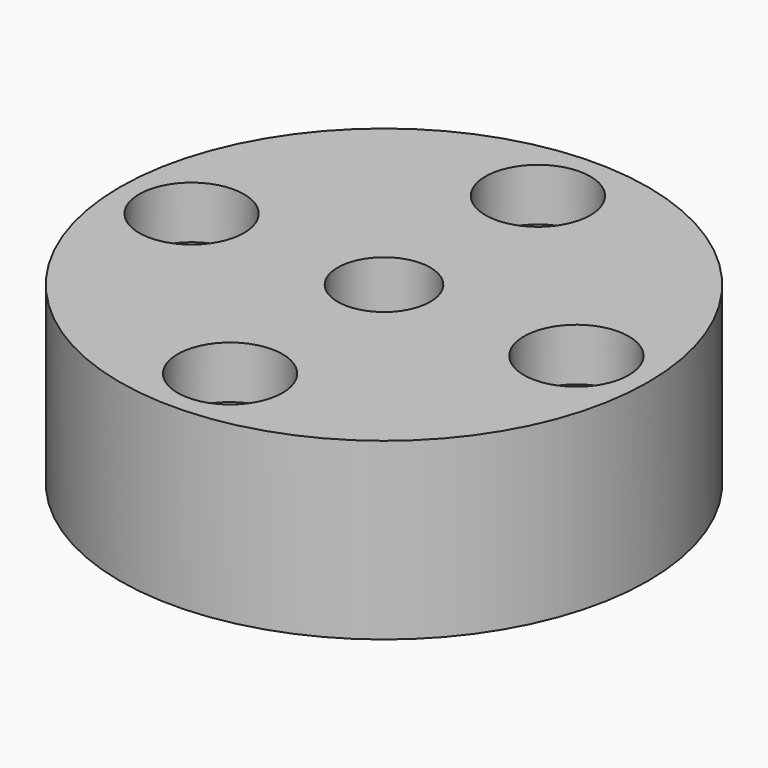
from build123d import *

# Parameters (mm, degrees)
CYLINDER1824_R     = 2.65
CYLINDER1824_DEPTH = 30
CYLINDER1820_R     = 3
CYLINDER1820_DEPTH = 3
CYLINDER1817_R     = 3
CYLINDER1817_DEPTH = 3
CYLINDER1830_R     = 3
CYLINDER1830_DEPTH = 3
CYLINDER1819_R     = 3
CYLINDER1819_DEPTH = 3
CYLINDER1823_R     = 1.5
CYLINDER1823_DEPTH = 30
CYLINDER1825_R     = 1.5
CYLINDER1825_DEPTH = 30
CYLINDER1827_R     = 1.5
CYLINDER1827_DEPTH = 30
CYLINDER1821_R     = 1.5
CYLINDER1821_DEPTH = 30
CYLINDER1822_R     = 15.1
CYLINDER1822_DEPTH = 10


with BuildPart() as obj1:
    # Cylinder1824 → Cylinder1824 (new body)
    with BuildSketch(Plane(origin=(0, 83, 232), x_dir=(1, 0, 0), z_dir=(0, 0, 1))):
        Circle(CYLINDER1824_R)
    extrude(amount=CYLINDER1824_DEPTH)


with BuildPart() as obj2:
    # Cylinder1820 → Cylinder1820 (new body)
    with BuildSketch(Plane(origin=(11, 83, 232), x_dir=(1, 0, 0), z_dir=(0, 0, 1))):
        Circle(CYLINDER1820_R)
    extrude(amount=CYLINDER1820_DEPTH)


with BuildPart() as obj3:
    # Cylinder1817 → Cylinder1817 (new body)
    with BuildSketch(Plane(origin=(0, 72, 232), x_dir=(1, 0, 0), z_dir=(0, 0, 1))):
        Circle(CYLINDER1817_R)
    extrude(amount=CYLINDER1817_DEPTH)


with BuildPart() as obj4:
    # Cylinder1830 → Cylinder1830 (new body)
    with BuildSketch(Plane(origin=(0, 94, 232), x_dir=(1, 0, 0), z_dir=(0, 0, 1))):
        Circle(CYLINDER1830_R)
    extrude(amount=CYLINDER1830_DEPTH)


with BuildPart() as compound919:
    # Cylinder1819 → Cylinder1819 (new body)
    with BuildSketch(Plane(origin=(-11, 83, 232), x_dir=(1, 0, 0), z_dir=(0, 0, 1))):
        Circle(CYLINDER1819_R)
    extrude(amount=CYLINDER1819_DEPTH)

    # Compound919: union obj2, obj3, obj4
    add(obj2.part)
    add(obj3.part)
    add(obj4.part)


with BuildPart() as compound919_1:
    # Compound919 placement: moved
    add(compound919.part.moved(Location((0, 0, 17))))


with BuildPart() as obj5:
    # Cylinder1823 → Cylinder1823 (new body)
    with BuildSketch(Plane(origin=(11, 83, 232), x_dir=(1, 0, 0), z_dir=(0, 0, 1))):
        Circle(CYLINDER1823_R)
    extrude(amount=CYLINDER1823_DEPTH)


with BuildPart() as obj6:
    # Cylinder1825 → Cylinder1825 (new body)
    with BuildSketch(Plane(origin=(0, 72, 232), x_dir=(1, 0, 0), z_dir=(0, 0, 1))):
        Circle(CYLINDER1825_R)
    extrude(amount=CYLINDER1825_DEPTH)


with BuildPart() as obj7:
    # Cylinder1827 → Cylinder1827 (new body)
    with BuildSketch(Plane(origin=(0, 94, 232), x_dir=(1, 0, 0), z_dir=(0, 0, 1))):
        Circle(CYLINDER1827_R)
    extrude(amount=CYLINDER1827_DEPTH)


with BuildPart() as compound917:
    # Cylinder1821 → Cylinder1821 (new body)
    with BuildSketch(Plane(origin=(-11, 83, 232), x_dir=(1, 0, 0), z_dir=(0, 0, 1))):
        Circle(CYLINDER1821_R)
    extrude(amount=CYLINDER1821_DEPTH)

    # Compound917: union obj5, obj6, obj7
    add(obj5.part)
    add(obj6.part)
    add(obj7.part)


with BuildPart() as cut562:
    # Cylinder1822 → Cylinder1822 (new body)
    with BuildSketch(Plane(origin=(0, 83, 242), x_dir=(1, 0, 0), z_dir=(0, 0, 1))):
        Circle(CYLINDER1822_R)
    extrude(amount=CYLINDER1822_DEPTH)

    # Cut560: cut Compound917
    add(compound917.part, mode=Mode.SUBTRACT)

    # Cut558: cut Compound919
    add(compound919_1.part, mode=Mode.SUBTRACT)

    # Cut562: cut obj1
    add(obj1.part, mode=Mode.SUBTRACT)


solid = cut562.part
